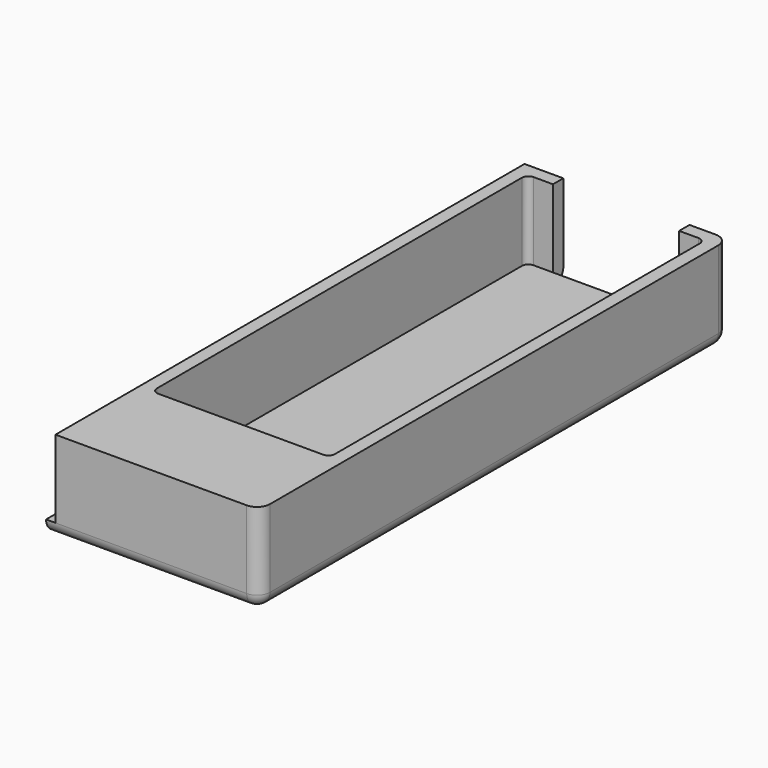
from build123d import *

# Parameters (mm, degrees)
SKETCH_W             = 33
SKETCH_H             = 90.6
PAD_DEPTH            = 2
SKETCH001_W          = 31.55
SKETCH001_H          = 90.6
PAD001_DEPTH         = 14
SKETCH002_W          = 27.5
SKETCH002_H          = 72.5
POCKET_DEPTH         = 12.001
SKETCH003_W          = 19.5
SKETCH003_H          = 7.2
POCKET001_DEPTH      = 2.001
POCKET001_DEPTH_BACK = -12.001
SKETCH004_R          = 3.25
POCKET002_DEPTH      = 2
FILLET_R             = 2
FILLET001_R          = 1


with BuildPart() as part:
    # Sketch → Pad (new body)
    with BuildSketch(Plane.XY):
        with Locations((43.35, -0.5)):
            Rectangle(SKETCH_W, SKETCH_H)
    extrude(amount=PAD_DEPTH)

    # Sketch001 → Pad001 (join)
    with BuildSketch(Plane.XY):
        with Locations((44.075, -0.5)):
            Rectangle(SKETCH001_W, SKETCH001_H)
    extrude(amount=PAD001_DEPTH)

    # Sketch002 (on DatumPlane) → Pocket (cut, through all)
    with BuildSketch(Plane.XY.offset(2)):
        with Locations((44.05, 6.55)):
            Rectangle(SKETCH002_W, SKETCH002_H)
    extrude(amount=POCKET_DEPTH, mode=Mode.SUBTRACT)

    # Sketch003 (on DatumPlane) → Pocket001 (cut, two sides)
    with BuildSketch(Plane.XY.offset(2)) as pocket001_sk:
        with Locations((44.05, 46.4)):
            Rectangle(SKETCH003_W, SKETCH003_H)
    extrude(amount=-POCKET001_DEPTH, mode=Mode.SUBTRACT)
    extrude(pocket001_sk.sketch, amount=-POCKET001_DEPTH_BACK, mode=Mode.SUBTRACT)

    # Sketch004 → Pocket002 (cut)
    with BuildSketch(Plane.XY):
        with Locations((25, 39.5)):
            Circle(SKETCH004_R)
        with Locations((25, -39.5)):
            Circle(SKETCH004_R)
    extrude(amount=POCKET002_DEPTH, mode=Mode.SUBTRACT)

    # Fillet
    fillet_edges = [part.edges().sort_by_distance(p)[0] for p in [
        (43.35, -45.8, 0),
        (59.85, -0.5, 0),
        (56.825, 44.8, 0),
        (30.575, 44.8, 0),
        (59.85, -45.8, 7),
        (59.85, 44.8, 7),
    ]]
    fillet(fillet_edges, radius=FILLET_R)

    # Fillet001
    fillet001_edges = [part.edges().sort_by_distance(p)[0] for p in [
        (30.3, -29.7, 8),
        (57.8, -29.7, 8),
        (57.8, 42.8, 8),
        (30.3, 42.8, 8),
    ]]
    fillet(fillet001_edges, radius=FILLET001_R)


solid = part.part
